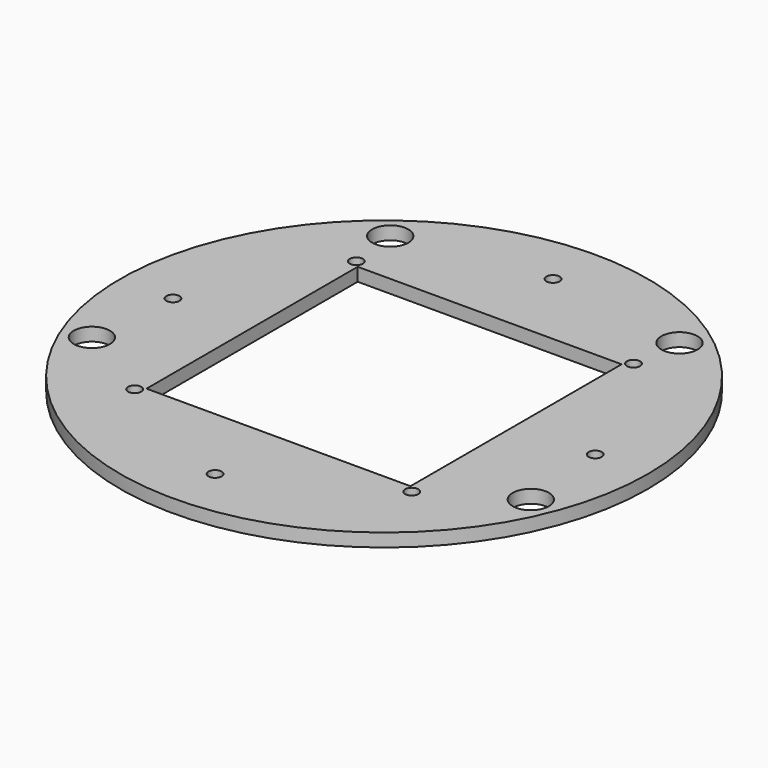
from build123d import *

# Parameters (mm, degrees)
F0_R     = 100
F0_R_2   = 2.5
F0_R_3   = 6.86
F0_W     = 100
F0_H     = 100
F1_DEPTH = 5


with BuildPart() as f1:
    # F0 (on Top) → F1 (new body)
    with BuildSketch(Plane.XY):
        Circle(F0_R)
        with Locations((-52.5, -52.5)):
            Circle(F0_R_2, mode=Mode.SUBTRACT)
        with Locations((-83.149158, -34.441509)):
            Circle(F0_R_3, mode=Mode.SUBTRACT)
        with Locations((0, -80)):
            Circle(F0_R_2, mode=Mode.SUBTRACT)
        with Locations((52.5, -52.5)):
            Circle(F0_R_2, mode=Mode.SUBTRACT)
        with Locations((83.149158, -34.441509)):
            Circle(F0_R_3, mode=Mode.SUBTRACT)
        with Locations((-80, 0)):
            Circle(F0_R_2, mode=Mode.SUBTRACT)
        with Locations((-52.5, 52.5)):
            Circle(F0_R_2, mode=Mode.SUBTRACT)
        with Locations((-54.788529, 71.401801)):
            Circle(F0_R_3, mode=Mode.SUBTRACT)
        Rectangle(F0_W, F0_H, mode=Mode.SUBTRACT)
        with Locations((80, 0)):
            Circle(F0_R_2, mode=Mode.SUBTRACT)
        with Locations((0, 80)):
            Circle(F0_R_2, mode=Mode.SUBTRACT)
        with Locations((52.5, 52.5)):
            Circle(F0_R_2, mode=Mode.SUBTRACT)
        with Locations((54.788529, 71.401801)):
            Circle(F0_R_3, mode=Mode.SUBTRACT)
    extrude(amount=F1_DEPTH)


solid = f1.part
